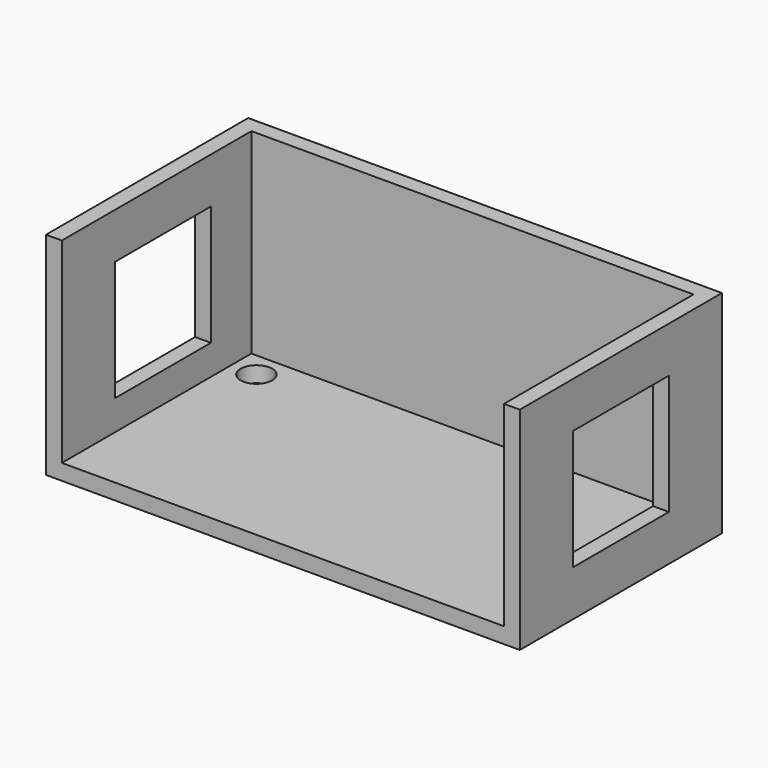
from build123d import *

# Parameters (mm, degrees)
F0_W     = 750
F0_H     = 400
F1_DEPTH = 25
F3_DEPTH = 310
F4_W     = 190
F4_H     = 190
F5_DEPTH = 750.001
F6_R     = 25
F7_DEPTH = 25.001


with BuildPart() as f1:
    # F0 (on Top) → F1 (new body)
    with BuildSketch(Plane.XY):
        Rectangle(F0_W, F0_H)
    extrude(amount=F1_DEPTH)

    # F2 (on face) → F3 (join)
    with BuildSketch(Plane.XY.offset(25)):
        Polygon((-350, -200), (-350, 175), (350, 175), (350, -200), (375, -200), (375, 200), (-375, 200), (-375, -200), align=None)
    extrude(amount=F3_DEPTH)

    # F4 (on face) → F5 (cut, through all)
    with BuildSketch(Plane.YZ.offset(375)):
        with Locations((0, 167.5)):
            Rectangle(F4_W, F4_H)
    extrude(amount=-F5_DEPTH, mode=Mode.SUBTRACT)

    # F6 (on face) → F7 (cut, through all)
    with BuildSketch(Plane.XY.offset(25)):
        with Locations((-310, 135)):
            Circle(F6_R)
    extrude(amount=-F7_DEPTH, mode=Mode.SUBTRACT)


solid = f1.part
